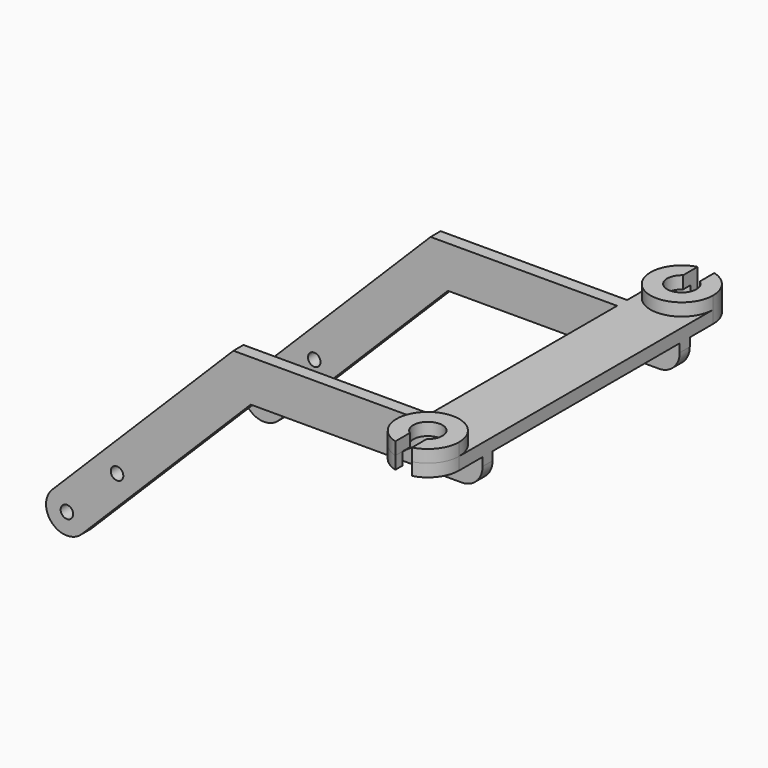
from build123d import *

# Parameters (mm, degrees)
F0_R     = 1.5
F1_DEPTH = 62
F2_W     = 60.3578643763
F2_H     = 56
F2_W_2   = 59.6421356237
F3_DEPTH = 100
F5_DEPTH = 3
F8_DEPTH = 3


with BuildPart() as f1:
    # F0 (on Front) → F1 (new body)
    with BuildSketch(Plane.XZ):
        with BuildLine():
            ThreePointArc((-3.5355339059, 3.5355339059), (0, 2.0710678119), (3.5355339059, 3.5355339059))
            Line((3.5355339059, 3.5355339059), (44, 44))
            Line((44, 44), (94.5, 44))
            ThreePointArc((94.5, 44), (98.0355339059, 45.4644660941), (99.5, 49))
            Line((99.5, 49), (99.5, 54))
            Line((99.5, 54), (39.8578643763, 54))
            Line((39.8578643763, 54), (-3.5355339059, 10.6066017178))
            ThreePointArc((-3.5355339059, 10.6066017178), (-5, 7.0710678119), (-3.5355339059, 3.5355339059))
        make_face()
        with Locations((0, 7.0710678119)):
            Circle(F0_R, mode=Mode.SUBTRACT)
        with Locations((12, 19.0710678119)):
            Circle(F0_R, mode=Mode.SUBTRACT)
    extrude(amount=F1_DEPTH)

    # F2 (on face) → F3 (cut)
    with BuildSketch(Plane.XY.offset(54)):
        with Locations((9.6789321881, -31)):
            Rectangle(F2_W, F2_H)
        with Locations((69.6789321881, -31)):
            Rectangle(F2_W_2, F2_H)
    extrude(amount=-F3_DEPTH, mode=Mode.SUBTRACT)


with BuildPart() as f5:
    # F4 (on face) → F5 (new body)
    with BuildSketch(Plane.XY.offset(54)):
        with BuildLine():
            ThreePointArc((99.5, -69), (92, -61.5), (84.5, -69))
            ThreePointArc((84.5, -69), (86.0313318068, -73.5414755311), (90, -76.2284161474))
            Line((90, -76.2284161474), (90, -74.123475383))
            ThreePointArc((90, -74.123475383), (88.8975815885, -64.4585244689), (97.5, -69))
            ThreePointArc((97.5, -69), (96.5414755311, -72.1024184115), (94, -74.123475383))
            Line((94, -74.123475383), (94, -76.2284161474))
            ThreePointArc((94, -76.2284161474), (97.9686681932, -73.5414755311), (99.5, -69))
        make_face()
        with BuildLine():
            ThreePointArc((89.3074175964, 0), (85.8175907598, 2.7540824329), (84.5, 7))
            Line((84.5, 7), (84.5, 0))
            Line((84.5, 0), (89.3074175964, 0))
        make_face()
        with BuildLine():
            Line((99.5, -3), (84.5, -3))
            Line((84.5, -3), (84.5, -69))
            ThreePointArc((84.5, -69), (92, -61.5), (99.5, -69))
            Line((99.5, -69), (99.5, -3))
        make_face()
        with BuildLine():
            ThreePointArc((99.5, 7), (98.1824092402, 2.7540824329), (94.6925824036, 0))
            Line((94.6925824036, 0), (99.5, 0))
            Line((99.5, 0), (99.5, 7))
        make_face()
        with BuildLine():
            Line((94.6925824036, 0), (89.3074175964, 0))
            ThreePointArc((89.3074175964, 0), (92, -0.5), (94.6925824036, 0))
        make_face()
        with BuildLine():
            ThreePointArc((90, 14.2284161474), (86.0313318068, 11.5414755311), (84.5, 7))
            ThreePointArc((84.5, 7), (85.8175907598, 2.7540824329), (89.3074175964, 0))
            Line((89.3074175964, 0), (94.6925824036, 0))
            ThreePointArc((94.6925824036, 0), (98.1824092402, 2.7540824329), (99.5, 7))
            ThreePointArc((99.5, 7), (97.9686681932, 11.5414755311), (94, 14.2284161474))
            Line((94, 14.2284161474), (94, 12.123475383))
            ThreePointArc((94, 12.123475383), (96.5414755311, 10.1024184115), (97.5, 7))
            ThreePointArc((97.5, 7), (88.8975815885, 2.4585244689), (90, 12.123475383))
            Line((90, 12.123475383), (90, 14.2284161474))
        make_face()
        with BuildLine():
            Line((89.3074175964, 0), (84.5, 0))
            Line((84.5, 0), (84.5, -3))
            Line((84.5, -3), (99.5, -3))
            Line((99.5, -3), (99.5, 0))
            Line((99.5, 0), (94.6925824036, 0))
            ThreePointArc((94.6925824036, 0), (92, -0.5), (89.3074175964, 0))
        make_face()
    extrude(amount=-F5_DEPTH)


with BuildPart() as f1_1:
    add(f1.part)

    # F6: union F5
    add(f5.part)

    # F7 (on face) → F8 (join)
    with BuildSketch(Plane.XY.offset(54)):
        with BuildLine():
            ThreePointArc((90, 12.123475383), (92, 1.5), (94, 12.123475383))
            Line((94, 12.123475383), (94, 9.8722813233))
            ThreePointArc((94, 9.8722813233), (95.1024184115, 8.6201851746), (95.5, 7))
            ThreePointArc((95.5, 7), (90.3798148254, 3.8975815885), (90, 9.8722813233))
            Line((90, 9.8722813233), (90, 12.123475383))
        make_face()
        with BuildLine():
            ThreePointArc((84.5, 7), (92, -0.5), (99.5, 7))
            ThreePointArc((99.5, 7), (97.9686681932, 11.5414755311), (94, 14.2284161474))
            Line((94, 14.2284161474), (94, 12.123475383))
            ThreePointArc((94, 12.123475383), (92, 1.5), (90, 12.123475383))
            Line((90, 12.123475383), (90, 14.2284161474))
            ThreePointArc((90, 14.2284161474), (86.0313318068, 11.5414755311), (84.5, 7))
        make_face()
        with BuildLine():
            Line((94, -71.8722813233), (94, -74.123475383))
            ThreePointArc((94, -74.123475383), (92, -63.5), (90, -74.123475383))
            Line((90, -74.123475383), (90, -71.8722813233))
            ThreePointArc((90, -71.8722813233), (90.3798148254, -65.8975815885), (95.5, -69))
            ThreePointArc((95.5, -69), (95.1024184115, -70.6201851746), (94, -71.8722813233))
        make_face()
        with BuildLine():
            ThreePointArc((94, -76.2284161474), (97.9686681932, -73.5414755311), (99.5, -69))
            ThreePointArc((99.5, -69), (92, -61.5), (84.5, -69))
            ThreePointArc((84.5, -69), (86.0313318068, -73.5414755311), (90, -76.2284161474))
            Line((90, -76.2284161474), (90, -74.123475383))
            ThreePointArc((90, -74.123475383), (92, -63.5), (94, -74.123475383))
            Line((94, -74.123475383), (94, -76.2284161474))
        make_face()
    extrude(amount=F8_DEPTH)


solid = f1_1.part
